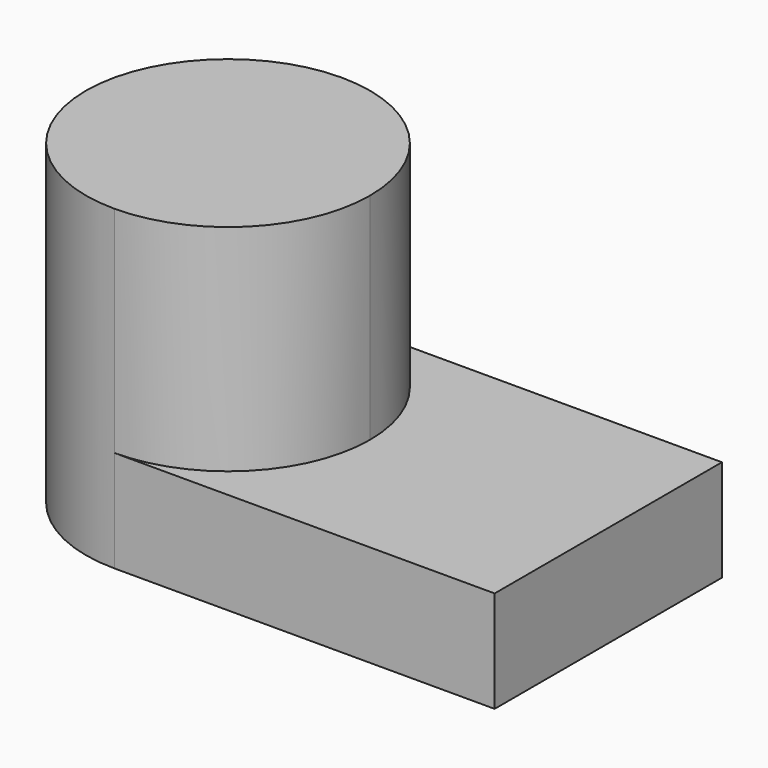
from build123d import *

# Parameters (mm, degrees)
F1_DEPTH  = 25
F2_DEPTH  = 77.880271
F1_FACE_W = 69.874778
F1_FACE_H = 25
F3_DEPTH  = 43.570839


with BuildPart() as f1:
    # F0 (on Top) → F1 (new body)
    with BuildSketch(Plane.XY):
        with BuildLine():
            Line((96.185938, -34.937389), (96.185938, 34.937389))
            Line((96.185938, 34.937389), (46.22232, 34.937389))
            ThreePointArc((46.22232, 34.937389), (70.926784, 24.704465), (81.159709, 0))
            ThreePointArc((81.159709, 0), (70.926784, -24.704465), (46.22232, -34.937389))
            Line((46.22232, -34.937389), (96.185938, -34.937389))
        make_face()
        with BuildLine():
            Line((46.22232, -34.937389), (46.22232, 34.937389))
            ThreePointArc((46.22232, 34.937389), (11.28493, 0), (46.22232, -34.937389))
        make_face()
        with BuildLine():
            ThreePointArc((81.159709, 0), (70.926784, 24.704465), (46.22232, 34.937389))
            Line((46.22232, 34.937389), (46.22232, -34.937389))
            ThreePointArc((46.22232, -34.937389), (70.926784, -24.704465), (81.159709, 0))
        make_face()
    extrude(amount=F1_DEPTH)

    # F0 (on Top) → F2 (join)
    with BuildSketch(Plane.XY):
        with BuildLine():
            ThreePointArc((81.159709, 0), (70.926784, 24.704465), (46.22232, 34.937389))
            Line((46.22232, 34.937389), (46.22232, -34.937389))
            ThreePointArc((46.22232, -34.937389), (70.926784, -24.704465), (81.159709, 0))
        make_face()
        with BuildLine():
            Line((46.22232, -34.937389), (46.22232, 34.937389))
            ThreePointArc((46.22232, 34.937389), (11.28493, 0), (46.22232, -34.937389))
        make_face()
    extrude(amount=F2_DEPTH)

    # F1_face (on face) → F3 (join)
    with BuildSketch(Plane(origin=(96.185938, 0, 12.5), x_dir=(0, 1, 0), z_dir=(1, 0, 0))):
        Rectangle(F1_FACE_W, F1_FACE_H)
    extrude(amount=F3_DEPTH)


solid = f1.part
